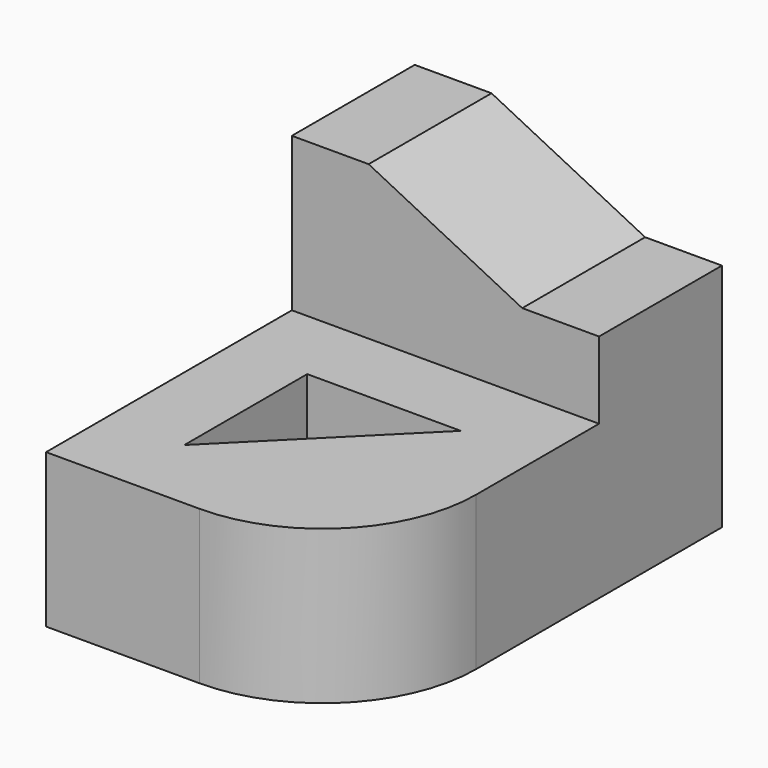
from build123d import *

# Parameters (mm, degrees)
SKETCH_W        = 40
SKETCH_H        = 40
PAD_DEPTH       = 20
POCKET_DEPTH    = 20.001
FILLET_R        = 20
SKETCH002_W     = 40
SKETCH002_H     = 20
PAD001_DEPTH    = 40
POCKET001_DEPTH = 20.001


with BuildPart() as part:
    # Sketch → Pad (new body)
    with BuildSketch(Plane.XY):
        Rectangle(SKETCH_W, SKETCH_H)
    extrude(amount=PAD_DEPTH)

    # Sketch001 (on Face6 of Pad) → Pocket (cut, through all)
    with BuildSketch(Plane.XY.offset(20)):
        Polygon((-10, 10), (-10, -10), (10, 10), align=None)
    extrude(amount=-POCKET_DEPTH, mode=Mode.SUBTRACT)

    # Fillet
    fillet_edges = [part.edges().sort_by_distance(p)[0] for p in [
        (20, -20, 10),
    ]]
    fillet(fillet_edges, radius=FILLET_R)

    # Sketch002 (on Face2 of Fillet) → Pad001 (join)
    with BuildSketch(Plane(origin=(0, 0, 0), x_dir=(1, 0, 0), z_dir=(0, 0, -1))):
        with Locations((0, -30)):
            Rectangle(SKETCH002_W, SKETCH002_H)
    extrude(amount=-PAD001_DEPTH)

    # Sketch003 (on Face9 of Pad001) → Pocket001 (cut, through all)
    with BuildSketch(Plane.XZ.offset(-20)):
        Polygon((-10, 40), (10, 30), (20, 30), (20, 40), align=None)
    extrude(amount=-POCKET001_DEPTH, mode=Mode.SUBTRACT)


solid = part.part
